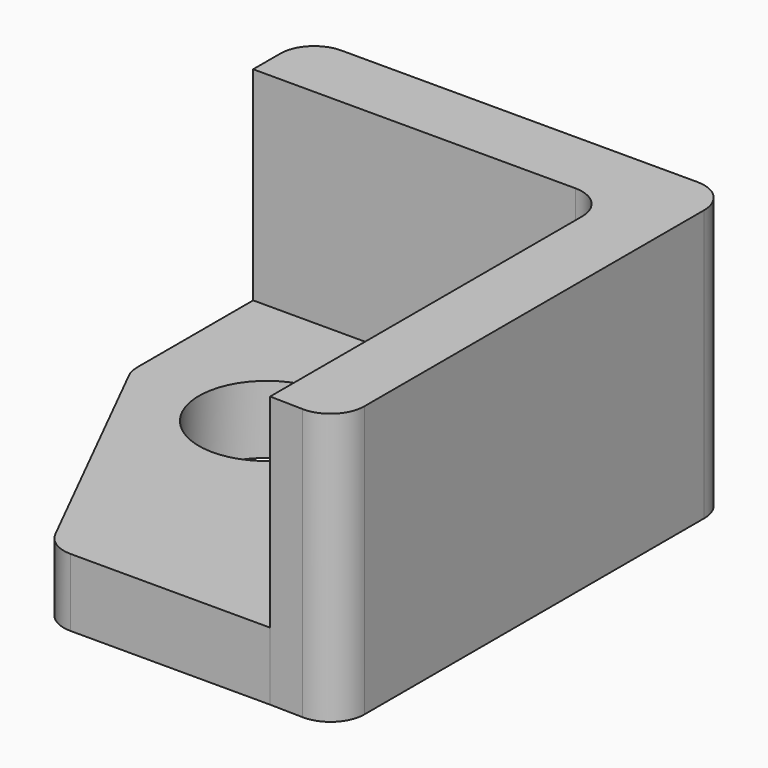
from build123d import *

# Parameters (mm, degrees)
F0_R     = 2
F1_DEPTH = 2
F2_DEPTH = 8
F3_R     = 1


with BuildPart() as f1:
    # F0 (on Top) → F1 (new body)
    with BuildSketch(Plane.XY):
        Polygon((-4, 4.5), (-4, 0), (0, -8), (6.5, -8), (6.5, 4.5), align=None)
        Circle(F0_R, mode=Mode.SUBTRACT)
        Polygon((-4, 6.5), (-4, 4.5), (6.5, 4.5), (6.5, -8), (8.499535, -8.043109), (8.499535, 6.5), align=None)
    extrude(amount=F1_DEPTH)

    # F0 (on Top) → F2 (join)
    with BuildSketch(Plane.XY):
        Polygon((-4, 6.5), (-4, 4.5), (6.5, 4.5), (6.5, -8), (8.499535, -8.043109), (8.499535, 6.5), align=None)
    extrude(amount=F2_DEPTH)

    # F3
    f3_edges = [f1.edges().sort_by_distance(p)[0] for p in [
        (6.5, 4.5, 5),
        (8.499535, 6.5, 4),
        (-4, 6.5, 4),
        (-4, 0, 1),
        (0, -8, 1),
        (8.499535, -8.043109, 4),
    ]]
    fillet(f3_edges, radius=F3_R)


solid = f1.part
